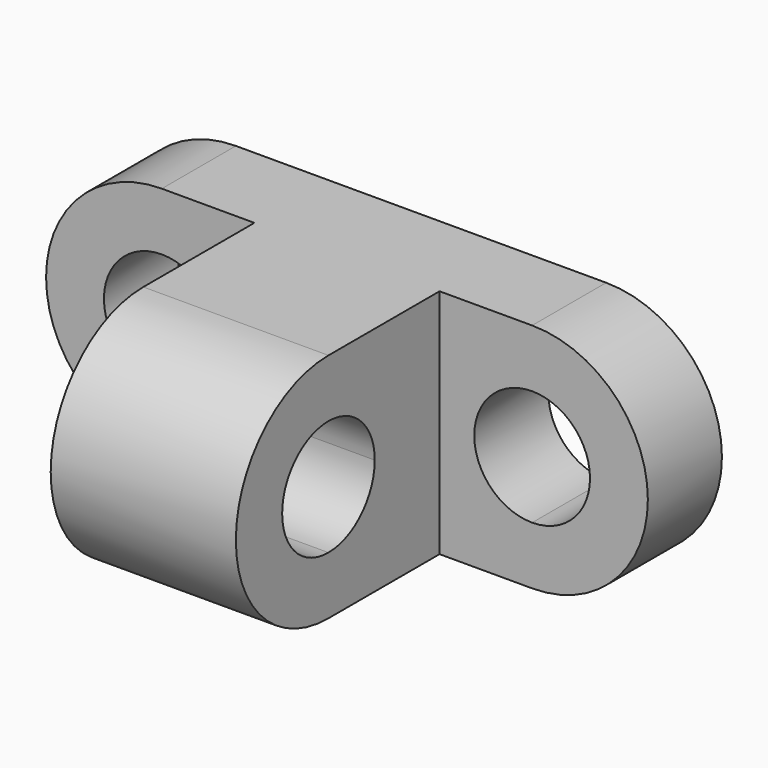
from build123d import *

# Parameters (mm, degrees)
F0_W     = 40
F0_H     = 50
F1_DEPTH = 20
F2_DEPTH = 30
F4_DEPTH = 40
F5_DEPTH = 40


with BuildPart() as f1:
    # F0 (on Front) → F1 (new body)
    with BuildSketch(Plane.XZ):
        with BuildLine():
            ThreePointArc((0, 50), (-25, 25), (0, 0))
            Line((0, 0), (0, 12.5))
            ThreePointArc((0, 12.5), (-12.5, 25), (0, 37.5))
            Line((0, 37.5), (0, 50))
        make_face()
        with BuildLine():
            Line((0, 12.5), (0, 0))
            Line((0, 0), (20, 0))
            Line((20, 0), (20, 50))
            Line((20, 50), (0, 50))
            Line((0, 50), (0, 37.5))
            ThreePointArc((0, 37.5), (8.8388347648, 33.8388347648), (12.5, 25))
            ThreePointArc((12.5, 25), (8.8388347648, 16.1611652352), (0, 12.5))
        make_face()
        with Locations((40, 25)):
            Rectangle(F0_W, F0_H)
        with BuildLine():
            Line((60, 50), (60, 0))
            Line((60, 0), (80, 0))
            Line((80, 0), (80, 12.5))
            ThreePointArc((80, 12.5), (67.5, 25), (80, 37.5))
            Line((80, 37.5), (80, 50))
            Line((80, 50), (60, 50))
        make_face()
        with BuildLine():
            Line((80, 12.5), (80, 0))
            ThreePointArc((80, 0), (105, 25), (80, 50))
            Line((80, 50), (80, 37.5))
            ThreePointArc((80, 37.5), (88.8388347648, 33.8388347648), (92.5, 25))
            ThreePointArc((92.5, 25), (88.8388347648, 16.1611652352), (80, 12.5))
        make_face()
    extrude(amount=-F1_DEPTH)

    # F0 (on Front) → F2 (join)
    with BuildSketch(Plane.XZ):
        with Locations((40, 25)):
            Rectangle(F0_W, F0_H)
    extrude(amount=F2_DEPTH)

    # F3 (on face) → F4 (join)
    with BuildSketch(Plane.YZ.offset(60)):
        with BuildLine():
            Line((-30, 37.5), (-30, 50))
            ThreePointArc((-30, 50), (-55, 25), (-30, 0))
            Line((-30, 0), (-30, 12.5))
            ThreePointArc((-30, 12.5), (-42.5, 25), (-30, 37.5))
        make_face()
    extrude(amount=-F4_DEPTH)

    # F3 (on face) → F5 (cut)
    with BuildSketch(Plane.YZ.offset(60)):
        with BuildLine():
            ThreePointArc((-17.5, 25), (-21.1611652352, 33.8388347648), (-30, 37.5))
            Line((-30, 37.5), (-30, 12.5))
            ThreePointArc((-30, 12.5), (-21.1611652352, 16.1611652352), (-17.5, 25))
        make_face()
    extrude(amount=-F5_DEPTH, mode=Mode.SUBTRACT)


solid = f1.part
